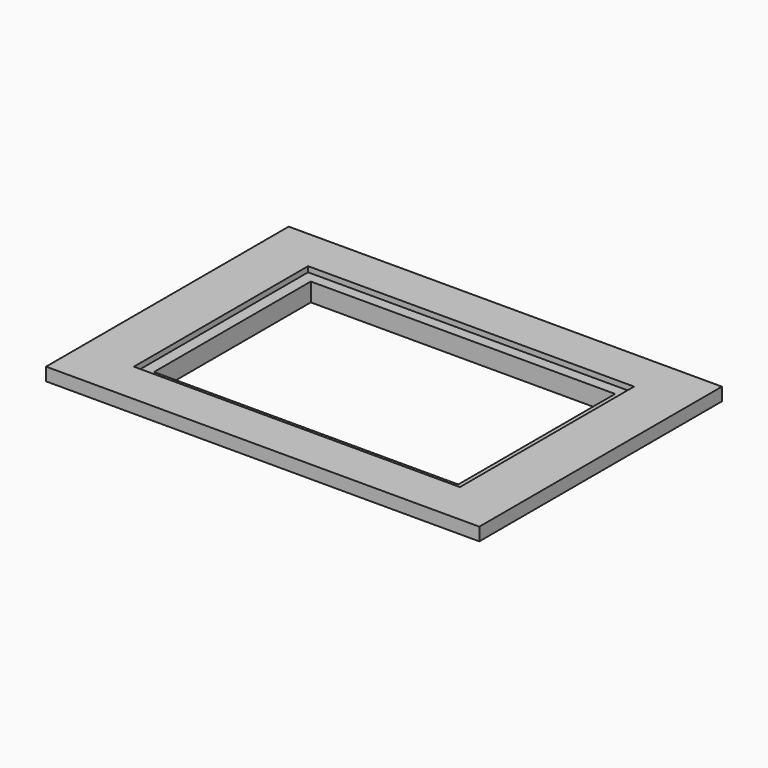
from build123d import *

# Parameters (mm, degrees)
SKETCH028_W             = 200
SKETCH028_H             = 140
PAD014_DEPTH            = 6
SKETCH026_W             = 179
SKETCH026_H             = 119
PAD015_DEPTH            = 11
SKETCH027_W             = 150.5
SKETCH027_H             = 100.5
POCKET012_DEPTH         = 2.5
SKETCH025_W             = 140.5
SKETCH025_H             = 90.5
POCKET011_DEPTH         = 12
BODY007_PLACEMENT_ANGLE = 180


with BuildPart() as part:
    # Sketch028 → Pad014 (new body)
    with BuildSketch(Plane.XY):
        with Locations((100, 70)):
            Rectangle(SKETCH028_W, SKETCH028_H)
    extrude(amount=PAD014_DEPTH)

    # Sketch026 → Pad015 (join)
    with BuildSketch(Plane.XY):
        with Locations((100, 70)):
            Rectangle(SKETCH026_W, SKETCH026_H)
    extrude(amount=PAD015_DEPTH)

    # Sketch027 → Pocket012 (cut)
    with BuildSketch(Plane.XY):
        with Locations((100, 70)):
            Rectangle(SKETCH027_W, SKETCH027_H)
    extrude(amount=POCKET012_DEPTH, mode=Mode.SUBTRACT)

    # Sketch025 → Pocket011 (cut)
    with BuildSketch(Plane.XY):
        with Locations((99.75, 70)):
            Rectangle(SKETCH025_W, SKETCH025_H)
    extrude(amount=POCKET011_DEPTH, mode=Mode.SUBTRACT)


with BuildPart() as part_1:
    # Body007 placement: moved
    add(part.part.moved(Location((175.5, -20, -0.5))).rotate(Axis((175.5, -20, -0.5), (0, 1, 0)), BODY007_PLACEMENT_ANGLE))


solid = part_1.part
